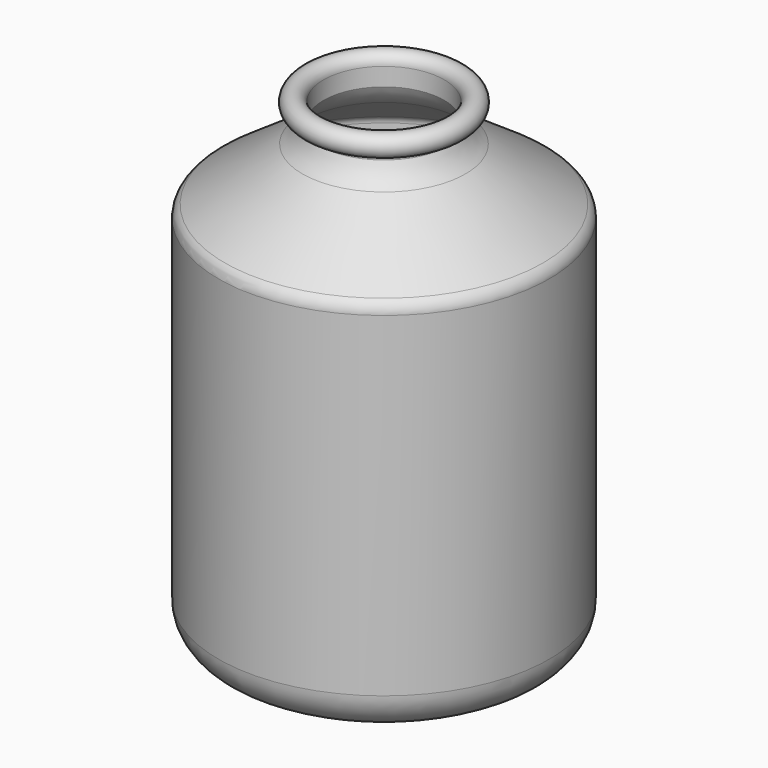
from build123d import *


with BuildPart() as f1:
    # F0 (on Front) → F1 (revolve)
    with BuildSketch(Plane.XZ):
        with BuildLine():
            Line((-18.297014, 0), (0, 0))
            Line((0, 0), (0, 0.762))
            Line((0, 0.762), (-18.297014, 0.762))
            ThreePointArc((-18.297014, 0.762), (-21.747899, 2.16408), (-23.243003, 5.575693))
            Line((-23.243003, 5.575693), (-23.243003, 54.132881))
            ThreePointArc((-23.243003, 54.132881), (-23.08849, 54.756626), (-22.660686, 55.236121))
            Line((-22.660686, 55.236121), (-11.394888, 62.934844))
            ThreePointArc((-11.394888, 62.934844), (-9.815802, 64.412829), (-8.754784, 66.297555))
            Line((-8.754784, 66.297555), (-8.754784, 68.907291))
            ThreePointArc((-8.754784, 68.907291), (-11.228293, 70.193991), (-10.861921, 67.430006))
            ThreePointArc((-10.861921, 67.430006), (-10.373858, 67.658295), (-10.602146, 68.146359))
            ThreePointArc((-10.602146, 68.146359), (-10.79086, 69.570055), (-9.516784, 68.907291))
            Line((-9.516784, 68.907291), (-9.516784, 66.440236))
            ThreePointArc((-9.516784, 66.440236), (-10.457059, 64.830589), (-11.824817, 63.563974))
            Line((-11.824817, 63.563974), (-23.090615, 55.865251))
            ThreePointArc((-23.090615, 55.865251), (-23.762378, 55.112321), (-24.005003, 54.132881))
            Line((-24.005003, 54.132881), (-24.005003, 5.565733))
            ThreePointArc((-24.005003, 5.565733), (-22.283194, 1.621743), (-18.297014, 0))
        make_face()
    revolve(axis=Axis((0, 0, 0.381), (0, 0, -1)))


solid = f1.part
